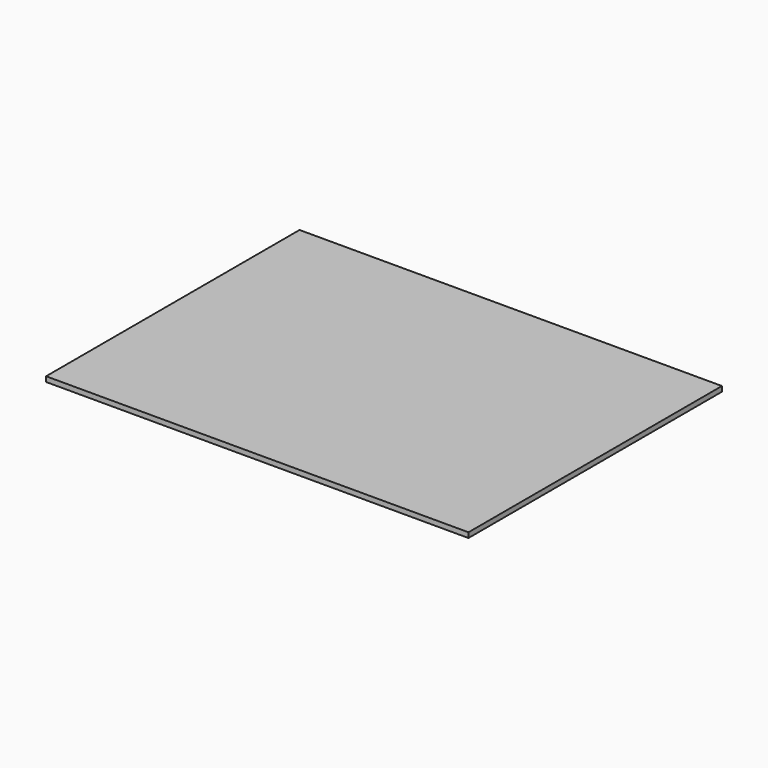
from build123d import *

# Parameters (mm, degrees)
F0_W     = 63.5
F0_H     = 47.625
F1_DEPTH = 0.762


with BuildPart() as f1:
    # F0 (on Top) → F1 (new body)
    with BuildSketch(Plane.XY):
        with Locations((38.5716339052, 3.8929983824)):
            Rectangle(F0_W, F0_H)
    extrude(amount=F1_DEPTH)


with BuildPart() as f1_1:
    # F2: moved
    add(f1.part.moved(Location((-6.8216339052, 19.9195016176, -0.762))))


with BuildPart() as f1_2:
    # F3: moved
    add(f1_1.part.moved(Location((0, -24.638, 0))))


solid = f1_2.part
